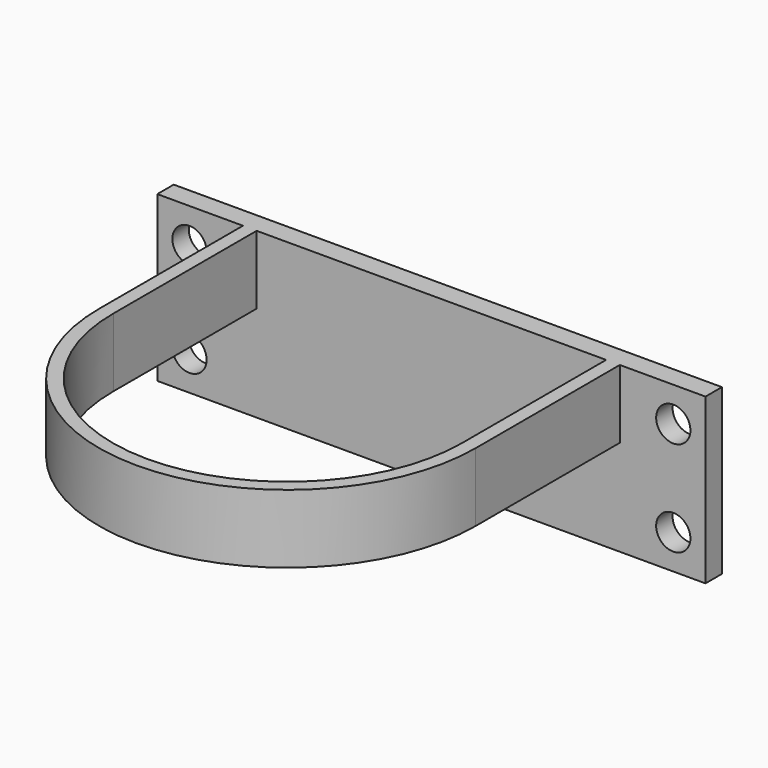
from build123d import *

# Parameters (mm, degrees)
F0_W     = 80
F0_H     = 24
F0_R     = 2.5
F1_DEPTH = 3
F3_DEPTH = 10


with BuildPart() as f1:
    # F0 (on Front) → F1 (new body)
    with BuildSketch(Plane.XZ):
        with Locations((-6.643935, 1.315546)):
            Rectangle(F0_W, F0_H)
        with Locations((-41.943935, -5.634454)):
            Circle(F0_R, mode=Mode.SUBTRACT)
        with Locations((28.656065, -5.634454)):
            Circle(F0_R, mode=Mode.SUBTRACT)
        with Locations((-41.943935, 8.265546)):
            Circle(F0_R, mode=Mode.SUBTRACT)
        with Locations((28.656065, 8.265546)):
            Circle(F0_R, mode=Mode.SUBTRACT)
    extrude(amount=F1_DEPTH)

    # F2 (on face) → F3 (join)
    with BuildSketch(Plane.XY.offset(13.315546)):
        with BuildLine():
            ThreePointArc((18.856003, -29.321047), (-6.757583, -54.764478), (-32.143362, -29.093751))
            Line((-32.143362, -29.093751), (-32.143362, -3))
            Line((-32.143362, -3), (-34.143362, -3))
            Line((-34.143362, -3), (-34.143362, -29.087173))
            ThreePointArc((-34.143362, -29.087173), (-6.761956, -56.764478), (20.856003, -29.323214))
            Line((20.856003, -29.323214), (20.856003, -3))
            Line((20.856003, -3), (18.856003, -3))
            Line((18.856003, -3), (18.856003, -29.321047))
        make_face()
    extrude(amount=-F3_DEPTH)


solid = f1.part
